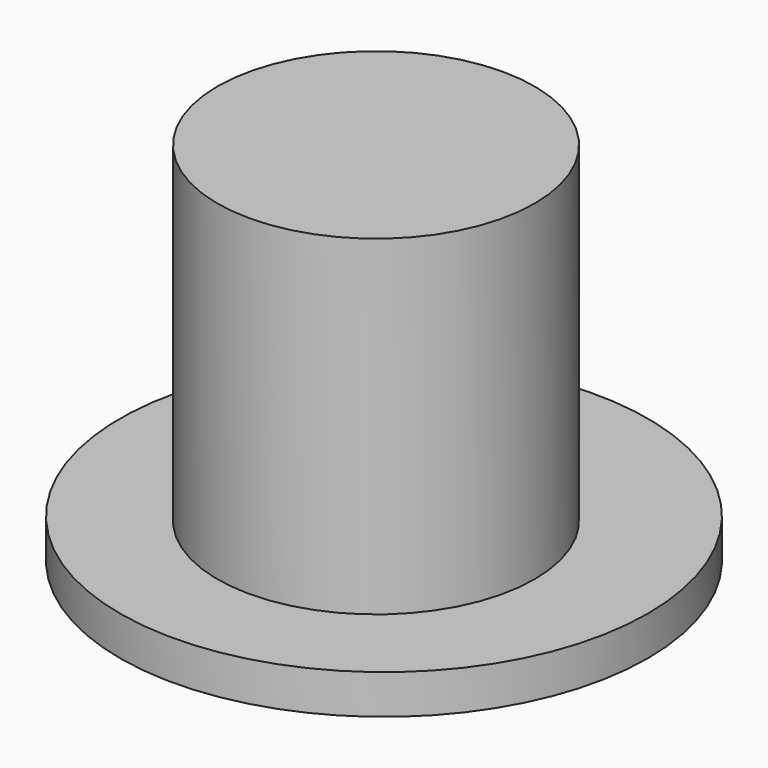
from build123d import *

# Parameters (mm, degrees)
F0_R     = 40.219035
F1_DEPTH = 6
F2_R     = 24.166496
F3_DEPTH = 56.4


with BuildPart() as f1:
    # F0 (on Top) → F1 (new body)
    with BuildSketch(Plane.XY):
        Circle(F0_R)
    extrude(amount=F1_DEPTH)

    # F2 (on Top) → F3 (join)
    with BuildSketch(Plane.XY):
        with Locations((0, -1.512605)):
            Circle(F2_R)
    extrude(amount=F3_DEPTH)


solid = f1.part
